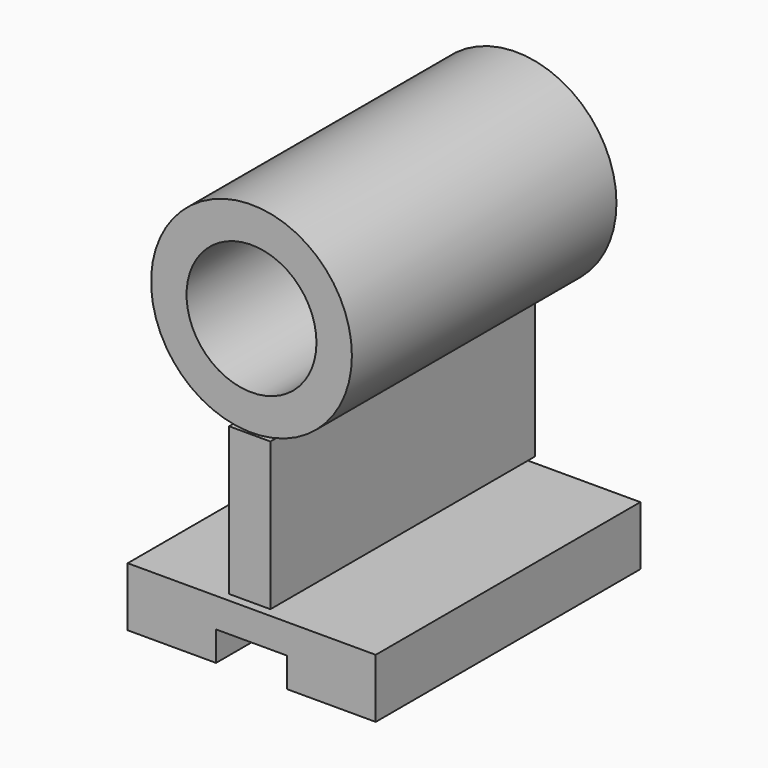
from build123d import *

# Parameters (mm, degrees)
F1_W     = 7
F1_H     = 25
F0_R     = 17
F0_R_2   = 11
F2_DEPTH = 56


with BuildPart() as f2:
    # F1 (on Front) + F0 (on Front) → F2 (new body)
    with BuildSketch(Plane.XZ):
        with Locations((-0.3, 9.6)):
            Rectangle(F1_W, F1_H)
        Polygon((6, -13.898565), (21.036514, -13.898565), (21.036514, -3.898565), (-20.963486, -3.898565), (-20.963486, -13.898565), (-6, -13.898565), (-6, -8.898565), (6, -8.898565), align=None)
    with BuildSketch(Plane.XZ):
        with Locations((0, 39.375)):
            Circle(F0_R)
        with Locations((0, 39.375)):
            Circle(F0_R_2, mode=Mode.SUBTRACT)
    extrude(amount=F2_DEPTH)


solid = f2.part
